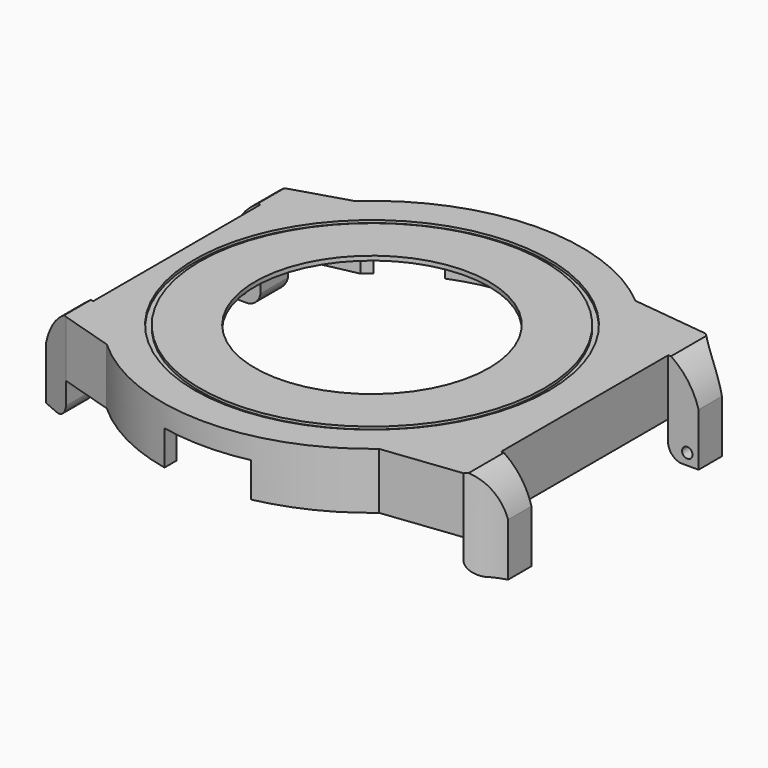
from build123d import *

# Parameters (mm, degrees)
PAD_DEPTH            = 6.5
POCKET_DEPTH         = 6
SKETCH002_R          = 13.5
POCKET001_DEPTH      = 1
SKETCH003_W          = 5.4
SKETCH003_H          = 6.5
PAD001_DEPTH         = 3.5
POCKET002_DEPTH      = 10
SKETCH010_W          = 3.95
SKETCH010_H          = 6.5
PAD002_DEPTH         = 3.5
POCKET005_DEPTH      = 10
SKETCH014_R          = 20.45
SKETCH014_R_2        = 19.85
POCKET008_DEPTH      = 0.3
SKETCH015_R          = 2.2
SKETCH015_R_2        = 0.975
PAD003_DEPTH         = 2
POCKET009_DEPTH      = 4
POCKET010_DEPTH      = 4
PAD004_DEPTH         = 4
POCKET013_DEPTH      = 12.151
POCKET013_DEPTH_BACK = 36.251
SKETCH022_R          = 0.6
POCKET014_DEPTH      = 2
SKETCH023_R          = 0.6
POCKET015_DEPTH      = 2


with BuildPart() as part:
    # Sketch → Pad (new body)
    with BuildSketch(Plane.XY):
        with BuildLine():
            Line((-22.5019915649, 16), (-22.5019915649, -16))
            Line((-22.5019915649, -16), (-16.2858834578, -17.9))
            ThreePointArc((-16.2858834578, -17.9), (-0.4552796053, -24.1957169863), (15.6009615088, -18.5))
            Line((15.6009615088, -18.5), (24.5395016581, -17.45))
            Line((24.5395016581, 17.45), (24.5395016581, -17.45))
            Line((15.6009615088, 18.5), (24.5395016581, 17.45))
            ThreePointArc((15.6009615088, 18.5), (-0.4552796053, 24.1957169863), (-16.2858834578, 17.9))
            Line((-22.5019915649, 16), (-16.2858834578, 17.9))
        make_face()
    extrude(amount=PAD_DEPTH)

    # Sketch001 → Pocket (cut)
    with BuildSketch(Plane.XY):
        with BuildLine():
            Line((-14.8539557021, 16.9), (-21.2122180433, 15.55))
            Line((-21.2122180433, 15.55), (-21.2122180433, -15.55))
            Line((-21.2122180433, -15.55), (-14.8539557021, -16.9))
            ThreePointArc((-14.8539557021, -16.9), (-0.0760301383, -22.4998715423), (14.739402973, -17))
            Line((14.739402973, -17), (23.6191552218, -16.4))
            Line((23.6191552218, 16.4), (23.6191552218, -16.4))
            Line((14.739402973, 17), (23.6191552218, 16.4))
            ThreePointArc((14.739402973, 17), (-0.0760301383, 22.4998715423), (-14.8539557021, 16.9))
        make_face()
    extrude(amount=POCKET_DEPTH, mode=Mode.SUBTRACT)

    # Sketch002 (on Face19 of Pocket) → Pocket001 (cut)
    with BuildSketch(Plane(origin=(0, 0, 6), x_dir=(1, 0, 0), z_dir=(0, 0, -1))):
        Circle(SKETCH002_R)
    extrude(amount=-POCKET001_DEPTH, mode=Mode.SUBTRACT)

    # Sketch003 (on Face7 of Pad) → Pad001 (join)
    with BuildSketch(Plane.YZ.offset(24.5395016581)):
        with Locations((-14.75, 3.25)):
            Rectangle(SKETCH003_W, SKETCH003_H)
        with Locations((14.75, 3.25)):
            Rectangle(SKETCH003_W, SKETCH003_H)
    extrude(amount=PAD001_DEPTH)

    # Sketch006 (on Face22 of Pad001) → Pocket002 (cut)
    with BuildSketch(Plane.XY.offset(6.5)):
        with BuildLine():
            ThreePointArc((24.5395016581, 17.45), (26.1592830786, 16.2095505764), (28.0395016581, 15.4176006311))
            Line((28.0395016581, 17.45), (28.0395016581, 15.4176006311))
            Line((28.0395016581, 17.45), (24.5395016581, 17.45))
        make_face()
        with BuildLine():
            ThreePointArc((28.0395016581, -15.4176006311), (26.1592830786, -16.2095505765), (24.5395016581, -17.4500000001))
            Line((28.0395016581, -17.45), (24.5395016581, -17.45))
            Line((28.0395016581, -15.4176006311), (28.0395016581, -17.45))
        make_face()
    extrude(amount=-POCKET002_DEPTH, mode=Mode.SUBTRACT)

    # Sketch010 (on Face3 of Pad) → Pad002 (join)
    with BuildSketch(Plane(origin=(-22.5019915649, 0, 0), x_dir=(0, -1, 0), z_dir=(-1, 0, 0))):
        with Locations((-14.025, 3.25)):
            Rectangle(SKETCH010_W, SKETCH010_H)
        with Locations((14.025, 3.25)):
            Rectangle(SKETCH010_W, SKETCH010_H)
    extrude(amount=PAD002_DEPTH)

    # Sketch011 (on Face28 of Pad002) → Pocket005 (cut)
    with BuildSketch(Plane.XY.offset(6.5)):
        Polygon((-26.0019915649, 16), (-22.5019915649, 16), (-26.0019915649, 14.5), align=None)
        Polygon((-22.5019915649, -16), (-26.0019915649, -14.5), (-26.0019915649, -16), align=None)
    extrude(amount=-POCKET005_DEPTH, mode=Mode.SUBTRACT)

    # Sketch014 (on Face10 of Pad) → Pocket008 (cut)
    with BuildSketch(Plane.XY.offset(6.5)):
        Circle(SKETCH014_R)
        Circle(SKETCH014_R_2, mode=Mode.SUBTRACT)
    extrude(amount=-POCKET008_DEPTH, mode=Mode.SUBTRACT)

    # Sketch015 (on Face19 of Pocket) → Pad003 (join)
    with BuildSketch(Plane(origin=(0, 0, 6), x_dir=(1, 0, 0), z_dir=(0, 0, -1))):
        with Locations((-18.42, 13.32)):
            Circle(SKETCH015_R)
        with Locations((-18.42, 13.32)):
            Circle(SKETCH015_R_2, mode=Mode.SUBTRACT)
        with Locations((7.27, 18.56)):
            Circle(SKETCH015_R)
        with Locations((7.27, 18.56)):
            Circle(SKETCH015_R_2, mode=Mode.SUBTRACT)
        with Locations((5.37, -19.79)):
            Circle(SKETCH015_R)
        with Locations((5.37, -19.79)):
            Circle(SKETCH015_R_2, mode=Mode.SUBTRACT)
        with Locations((-18.42, -13.32)):
            Circle(SKETCH015_R)
        with Locations((-18.42, -13.32)):
            Circle(SKETCH015_R_2, mode=Mode.SUBTRACT)
    extrude(amount=PAD003_DEPTH)

    # Sketch016 (on Face4 of Pocket) → Pocket009 (cut)
    with BuildSketch(Plane(origin=(0, 0, 0), x_dir=(1, 0, 0), z_dir=(0, 0, -1))):
        with BuildLine():
            Line((-4.9992330338, 23.6779996848), (-5.0007669662, 21.9372361465))
            ThreePointArc((5.0007669662, 21.9372361465), (0, 22.5), (-5.0007669662, 21.9372361465))
            Line((5.0007669662, 23.6776757675), (5.0007669662, 21.9372361465))
            ThreePointArc((5.0007669662, 23.6776757675), (0.00078388, 24.1999999873), (-4.9992330338, 23.6779996848))
        make_face()
    extrude(amount=-POCKET009_DEPTH, mode=Mode.SUBTRACT)

    # Sketch017 (on Face4 of Pocket) → Pocket010 (cut)
    with BuildSketch(Plane(origin=(0, 0, 0), x_dir=(1, 0, 0), z_dir=(0, 0, -1))):
        with BuildLine():
            ThreePointArc((-3.2541322314, -22.2634369184), (0, -22.5), (3.2541322314, -22.2634369184))
            Line((3.2541322314, -22.2634369184), (3.5, -23.9455632634))
            ThreePointArc((-3.5, -23.9455632634), (0, -24.2), (3.5, -23.9455632634))
            Line((-3.2541322314, -22.2634369184), (-3.5, -23.9455632634))
        make_face()
        with BuildLine():
            ThreePointArc((-13.9498796389, -17.6536358312), (-11.25, -19.4855715851), (-8.3135572795, -20.9077680626))
            Line((-8.3135572795, -20.9077680626), (-8.9416927184, -22.487466094))
            ThreePointArc((-15.0038705449, -18.987466094), (-12.1, -20.9578147716), (-8.9416927184, -22.487466094))
            Line((-13.9498796389, -17.6536358312), (-15.0038705449, -18.987466094))
        make_face()
        with BuildLine():
            ThreePointArc((8.3135572795, -20.9077680626), (11.25, -19.4855715851), (13.9498796389, -17.6536358312))
            Line((13.9498796389, -17.6536358312), (15.0038705449, -18.987466094))
            ThreePointArc((8.9416927184, -22.487466094), (12.1, -20.9578147716), (15.0038705449, -18.987466094))
            Line((8.3135572795, -20.9077680626), (8.9416927184, -22.487466094))
        make_face()
    extrude(amount=-POCKET010_DEPTH, mode=Mode.SUBTRACT)

    # Sketch018 (on Face8 of Pocket005) → Pad004 (join)
    with BuildSketch(Plane(origin=(0, 0, 0), x_dir=(1, 0, 0), z_dir=(0, 0, -1))):
        Polygon((-26.0019915649, 14.5), (-26.0019915649, 12.05), (-22.5019915649, 12.05), (-22.5019915649, 16), align=None)
        Polygon((-26.0019915649, -12.05), (-22.5019915649, -12.05), (-22.5019915649, -16), (-26.0019915649, -14.5), align=None)
        with BuildLine():
            Line((24.5395016581, 17.4500000001), (24.5395016581, 12.05))
            Line((28.0395016581, 12.05), (24.5395016581, 12.05))
            Line((28.0395016581, 15.4176006311), (28.0395016581, 12.05))
            ThreePointArc((24.5395016581, 17.4500000001), (26.1592830786, 16.2095505765), (28.0395016581, 15.4176006311))
        make_face()
        with BuildLine():
            Line((24.5395016581, -12.05), (24.5395016581, -17.45))
            ThreePointArc((28.0395016581, -15.4176006311), (26.1592830786, -16.2095505764), (24.5395016581, -17.45))
            Line((28.0395016581, -12.05), (28.0395016581, -15.4176006311))
            Line((24.5395016581, -12.05), (28.0395016581, -12.05))
        make_face()
    extrude(amount=PAD004_DEPTH)

    # Sketch021 (on Face50 of Pad004) → Pocket013 (cut, two sides)
    with BuildSketch(Plane(origin=(0, -12.05, 0), x_dir=(-1, 0, 0), z_dir=(0, 1, 0))) as pocket013_sk:
        with BuildLine():
            Line((-24.8620157143, 6.5), (-28.0395016581, 6.5))
            Line((-28.0395016581, 6.5), (-28.0395016581, 2.1))
            ThreePointArc((-24.8620157143, 6.5), (-26.8441838951, 4.5841143344), (-28.0395016581, 2.1))
        make_face()
        with BuildLine():
            ThreePointArc((-25.9995016581, -4), (-25.0260575173, -3.5134441408), (-24.5395016581, -2.54))
            Line((-24.5395016581, -4), (-24.5395016581, -2.54))
            Line((-24.5395016581, -4), (-25.9995016581, -4))
        make_face()
        with BuildLine():
            Line((22.5019915649, -4), (22.5019915649, -2.54))
            ThreePointArc((22.5019915649, -2.54), (22.9885474241, -3.5134441408), (23.9619915649, -4))
            Line((22.5019915649, -4), (23.9619915649, -4))
        make_face()
        with BuildLine():
            Line((26.0019915649, 6.5), (26.0019915649, 2.1))
            ThreePointArc((26.0019915649, 2.1), (24.806673802, 4.5841143344), (22.8245056212, 6.5))
            Line((26.0019915649, 6.5), (22.8245056212, 6.5))
        make_face()
    extrude(amount=-POCKET013_DEPTH, mode=Mode.SUBTRACT)
    extrude(pocket013_sk.sketch, amount=POCKET013_DEPTH_BACK, mode=Mode.SUBTRACT)

    # Sketch022 (on Face66 of Pocket013) → Pocket014 (cut)
    with BuildSketch(Plane.XZ.offset(-12.05)):
        with Locations((-24.7019915649, -2.7)):
            Circle(SKETCH022_R)
        with Locations((26.7395016581, -2.7)):
            Circle(SKETCH022_R)
    extrude(amount=-POCKET014_DEPTH, mode=Mode.SUBTRACT)

    # Sketch023 (on Face49 of Pocket014) → Pocket015 (cut)
    with BuildSketch(Plane(origin=(0, -12.05, 0), x_dir=(-1, 0, 0), z_dir=(0, 1, 0))):
        with Locations((-26.7395016581, -2.7)):
            Circle(SKETCH023_R)
        with Locations((24.7019915649, -2.7)):
            Circle(SKETCH023_R)
    extrude(amount=-POCKET015_DEPTH, mode=Mode.SUBTRACT)


solid = part.part
